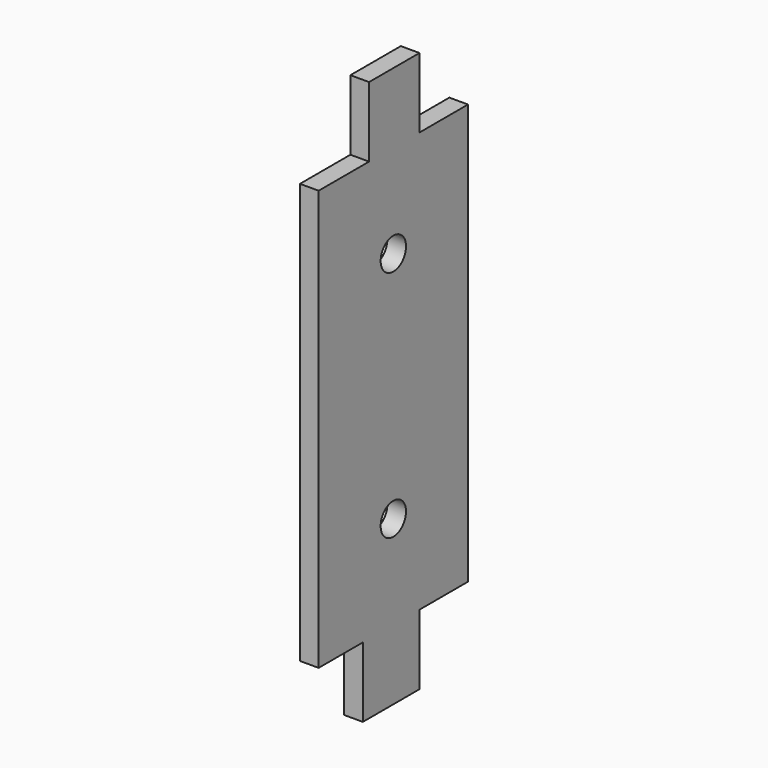
from build123d import *

# Parameters (mm, degrees)
F0_R     = 3.4
F1_DEPTH = 4


with BuildPart() as f1:
    # F0 (on Right) → F1 (new body)
    with BuildSketch(Plane.YZ):
        Polygon((-8.165322, -45), (-8.165322, -60), (7, -60), (7, -45), (20, -45), (20, 45), (7, 45), (7, 60), (-6.5, 60), (-6.5, 45), (-20, 45), (-20, -45), align=None)
        with Locations((0, -25)):
            Circle(F0_R, mode=Mode.SUBTRACT)
        with Locations((0, 25)):
            Circle(F0_R, mode=Mode.SUBTRACT)
    extrude(amount=F1_DEPTH)


solid = f1.part
